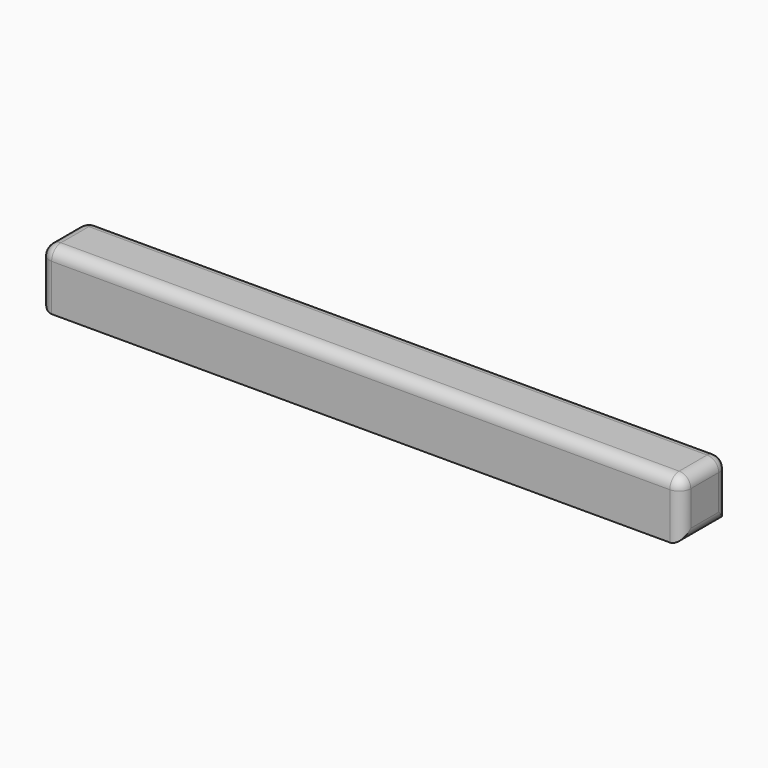
from build123d import *

# Parameters (mm, degrees)
F0_W     = 276
F0_H     = 25
F1_DEPTH = 25
F3_D     = 20
F3_DEPTH = 10
F3_TIP   = 6.0086061903
F4_R     = 5


with BuildPart() as f1:
    # F0 (on Front) → F1 (new body)
    with BuildSketch(Plane.XZ):
        with Locations((71.2675039768, 12.5)):
            Rectangle(F0_W, F0_H)
    extrude(amount=F1_DEPTH)

    # F3
    with Locations(Plane(origin=(0, 0, 0), x_dir=(1, 0, 0), z_dir=(0, 0, -1))):
        with Locations((140.2675039768, 12.5), (71.2675039768, 12.5), (2.2675039768, 12.5)):
            Hole(F3_D / 2, depth=F3_DEPTH)
            with Locations((0, 0, -(F3_DEPTH + F3_TIP / 2))):  # 118° drill point
                Cone(0, F3_D / 2, F3_TIP, mode=Mode.SUBTRACT)

    # F4
    f4_edges = [f1.edges().sort_by_distance(p)[0] for p in [
        (209.267504, -12.5, 25),
        (-66.732496, -12.5, 25),
        (71.267504, 0, 25),
        (71.267504, -25, 25),
        (209.267504, -12.5, 0),
        (209.267504, 0, 12.5),
        (209.267504, -25, 12.5),
        (-66.732496, -12.5, 0),
        (-66.732496, 0, 12.5),
        (-66.732496, -25, 12.5),
    ]]
    fillet(f4_edges, radius=F4_R)


solid = f1.part
